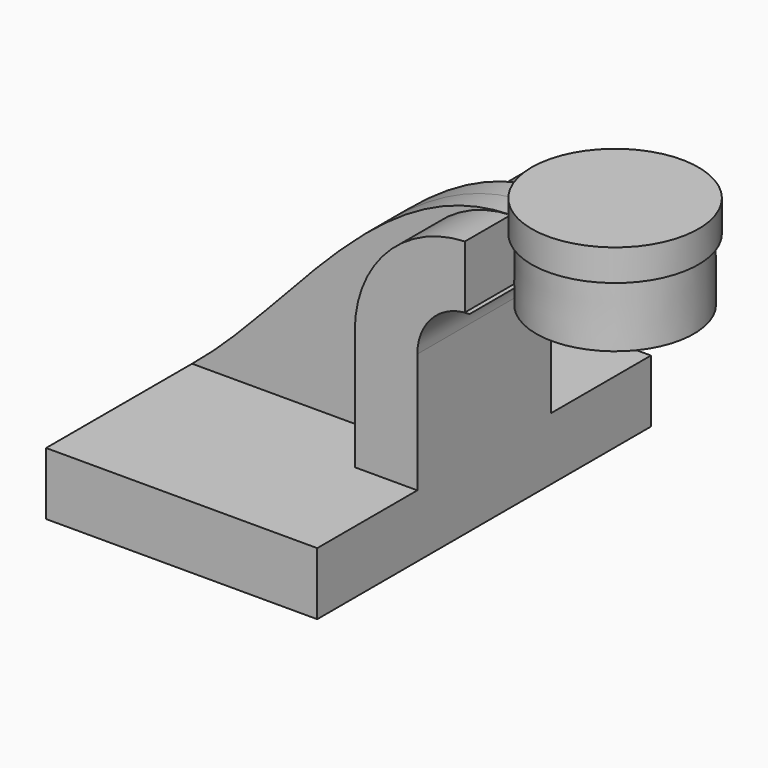
from build123d import *

# Parameters (mm, degrees)
F1_DEPTH = 63.5
F2_DEPTH = 25.4
F3_DEPTH = 7.9375


with BuildPart() as f1:
    # F0 (on Front) → F1 (new body, symmetric)
    with BuildSketch(Plane.XZ):
        Polygon((-41.275, -9.525), (41.275, -9.525), (41.275, 9.525), (22.224999, 9.525), (-41.275, 9.525), align=None)
    extrude(amount=F1_DEPTH, both=True)

    # F0 (on Front) → F2 (join, symmetric)
    with BuildSketch(Plane.XZ):
        with BuildLine():
            Line((22.224999, 9.525), (41.275, 9.525))
            Line((41.275, 9.525), (41.275, 46.0502))
            ThreePointArc((41.275, 46.0502), (45.92468, 57.27552), (57.15, 61.9252))
            Line((57.15, 61.9252), (55.757451, 61.9252))
            Line((55.757451, 61.9252), (55.757451, 80.947428))
            ThreePointArc((55.757451, 80.947428), (31.966767, 70.248557), (22.224999, 46.0502))
            Line((22.224999, 46.0502), (22.224999, 9.525))
        make_face()
    extrude(amount=F2_DEPTH, both=True)

    # F0 (on Front) → F3 (join, symmetric)
    with BuildSketch(Plane.XZ):
        with BuildLine():
            add(Edge.make_bspline(
                [(-41.275, 9.525), (-10.519324, 34.400629), (14.951362, 80.247904), (55.757451, 80.97504)],
                knots=[0, 0, 0, 0, 120.500643, 120.500643, 120.500643, 120.500643], degree=3))
            Line((-41.275, 9.525), (22.224999, 9.525))
            Line((22.224999, 9.525), (22.224999, 46.0502))
            ThreePointArc((22.224999, 46.0502), (31.966767, 70.248557), (55.757451, 80.947428))
            Line((55.757451, 80.947428), (55.757451, 80.97504))
        make_face()
    extrude(amount=F3_DEPTH, both=True)


with BuildPart() as f4:
    # F0 (on Front) → F4 (revolve)
    with BuildSketch(Plane.XZ):
        with BuildLine():
            Line((55.757451, 90.5002), (55.757451, 80.97504))
            Line((55.757451, 80.97504), (55.757451, 80.947428))
            ThreePointArc((55.757451, 80.947428), (56.506623, 80.969275), (57.256091, 80.97504))
            Line((57.256091, 80.97504), (57.15, 61.9252))
            Line((57.15, 61.9252), (81.157451, 61.9252))
            Line((81.157451, 61.9252), (81.157451, 90.5002))
            Line((81.157451, 90.5002), (55.757451, 90.5002))
        make_face()
    revolve(axis=Axis((81.157451, 0, 76.2127), (0, 0, -1)))


solid = Compound([f1.part, f4.part])
